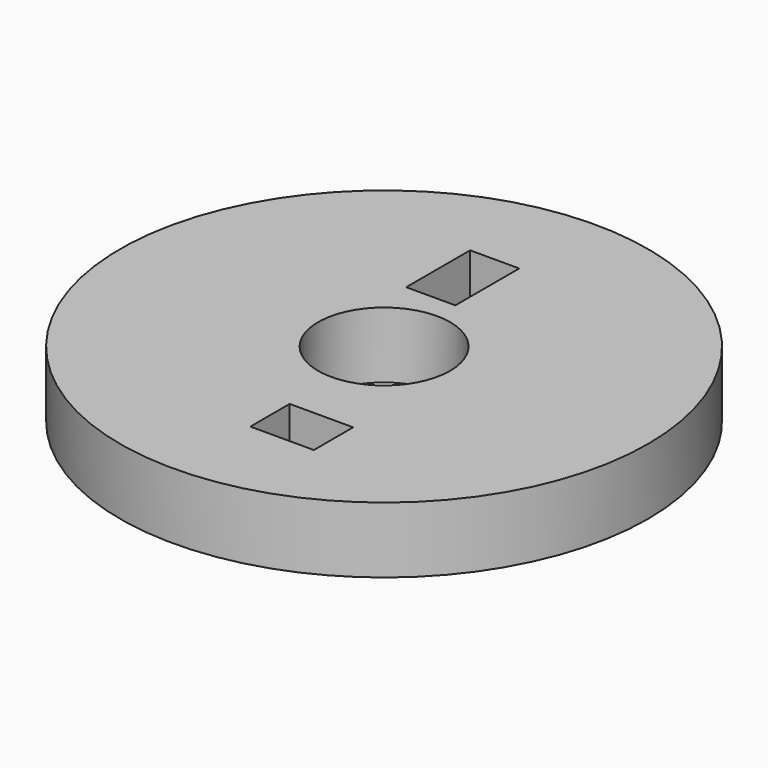
from build123d import *

# Parameters (mm, degrees)
F0_R     = 50.8
F0_R_2   = 12.7
F0_W     = 12.218278
F0_H     = 9.459313
F0_W_2   = 9.459311
F0_H_2   = 15.371379
F1_DEPTH = 12.7


with BuildPart() as f1:
    # F0 (on Top) → F1 (new body)
    with BuildSketch(Plane.XY):
        Circle(F0_R)
        Circle(F0_R_2, mode=Mode.SUBTRACT)
        with Locations((6.700344, -28.180861)):
            Rectangle(F0_W, F0_H, mode=Mode.SUBTRACT)
        with Locations((-4.729655, 24.830689)):
            Rectangle(F0_W_2, F0_H_2, mode=Mode.SUBTRACT)
    extrude(amount=F1_DEPTH)


solid = f1.part
